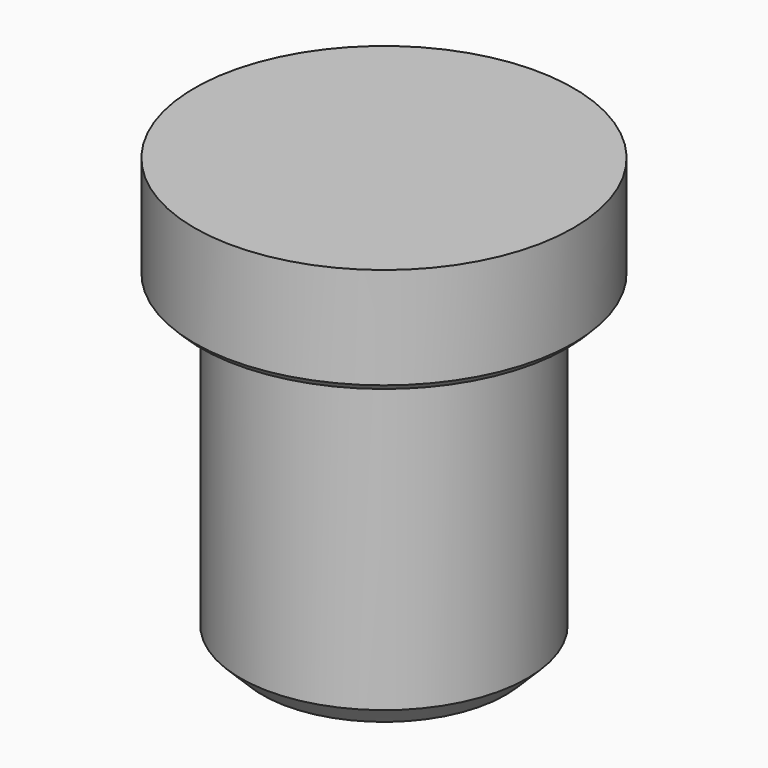
from build123d import *

# Parameters (mm, degrees)
F2_R    = 1.5875
F3_SIZE = 1.5875
F4_SIZE = 5.08


with BuildPart() as f1:
    # F0 (on Front) → F1 (revolve)
    with BuildSketch(Plane.XZ):
        Polygon((0, 50.8), (0, -50.8), (33.655, -50.8), (33.655, 25.4), (44.45, 25.4), (44.45, 50.8), align=None)
    revolve(axis=Axis((0, 0, 0), (0, 0, 1)))

    # F2
    f2_edges = [f1.edges().sort_by_distance(p)[0] for p in [
        (-33.655, 0, 25.4),
    ]]
    fillet(f2_edges, radius=F2_R)

    # F3
    f3_edges = [f1.edges().sort_by_distance(p)[0] for p in [
        (-44.45, 0, 25.4),
    ]]
    chamfer(f3_edges, length=F3_SIZE)

    # F4
    f4_edges = [f1.edges().sort_by_distance(p)[0] for p in [
        (-33.655, 0, -50.8),
    ]]
    chamfer(f4_edges, length=F4_SIZE)


solid = f1.part
